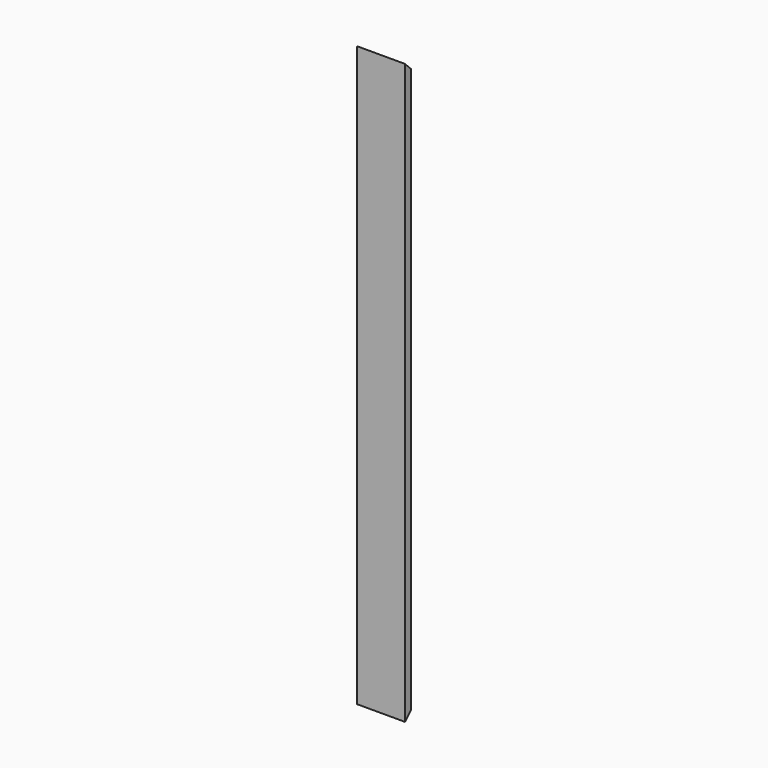
from build123d import *

# Parameters (mm, degrees)
F1_DEPTH = 600
F3_DEPTH = 50.001
F5_DEPTH = 50.001


with BuildPart() as f1:
    # F0 (on Top) → F1 (new body)
    with BuildSketch(Plane.XY):
        Polygon((0, 50), (0, 0), (50, 0), (50, 8), (8, 8), (8, 50), align=None)
    extrude(amount=F1_DEPTH)

    # F2 (on face) → F3 (cut, through all)
    with BuildSketch(Plane(origin=(0, 0, 0), x_dir=(0, -1, 0), z_dir=(-1, 0, 0))):
        Polygon((-50, 550), (0, 600), (-50, 600), align=None)
    extrude(amount=-F3_DEPTH, mode=Mode.SUBTRACT)

    # F4 (on face) → F5 (cut, through all)
    with BuildSketch(Plane(origin=(0, 0, 0), x_dir=(0, -1, 0), z_dir=(-1, 0, 0))):
        Polygon((-50, 0), (0, 0), (-50, 50), align=None)
    extrude(amount=-F5_DEPTH, mode=Mode.SUBTRACT)


solid = f1.part
